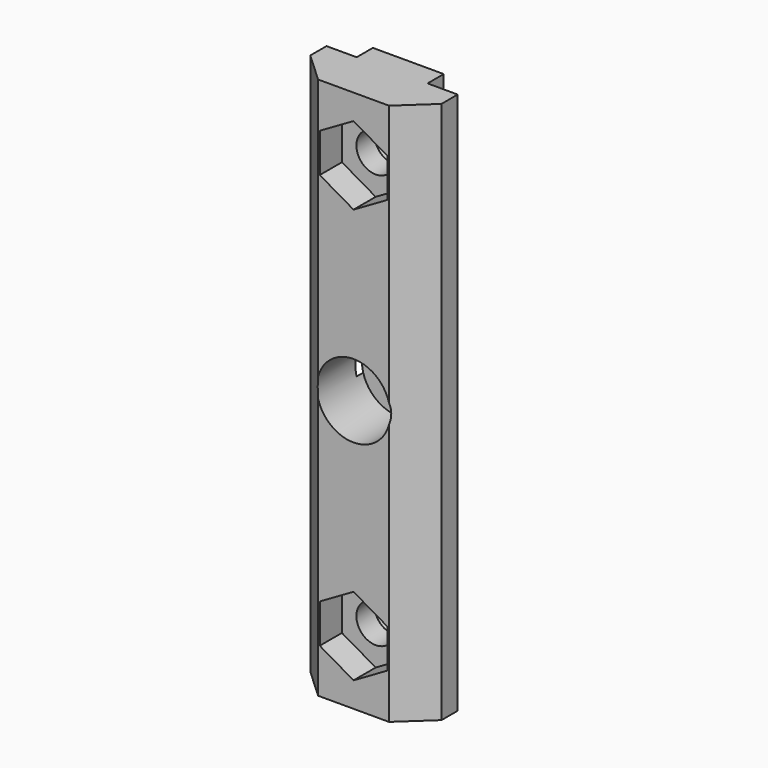
from build123d import *

# Parameters (mm, degrees)
PAD_DEPTH       = 45
SKETCH001_R     = 1.6
POCKET_DEPTH    = 5.68
SKETCH002_R     = 2.4
SKETCH002_R_2   = 1.6
PAD001_DEPTH    = 4
SKETCH003_R     = 1.6
POCKET001_DEPTH = 2.4
PAD002_DEPTH    = 2.4
SKETCH004_R     = 3.05
POCKET002_DEPTH = 9.68
SKETCH005_R     = 3.05
PAD003_DEPTH    = 1
SKETCH006_R     = 1.6
POCKET003_DEPTH = 5.681
POCKET004_DEPTH = 2.3
SKETCH008_R     = 2.75
POCKET005_DEPTH = 1.5
CHAMFER_SIZE    = 1


with BuildPart() as part:
    # Sketch → Pad (new body)
    with BuildSketch(Plane.XY):
        Polygon((2.94, -2.84), (-2.94, -2.84), (-5.44, -0.52), (-5.44, 1.16), (-2.94, 1.16), (-2.94, 2.84), (2.94, 2.84), (2.94, 1.16), (5.44, 1.16), (5.44, -0.52), align=None)
    extrude(amount=PAD_DEPTH)

    # Sketch001 (on Face6 of Pad) → Pocket (cut)
    with BuildSketch(Plane(origin=(0, 2.84, 0), x_dir=(-1, 0, 0), z_dir=(0, 1, 0))):
        with Locations((0, 22.5)):
            Circle(SKETCH001_R)
    extrude(amount=-POCKET_DEPTH, mode=Mode.SUBTRACT)

    # Sketch002 (on Face11 of Pocket) → Pad001 (join)
    with BuildSketch(Plane(origin=(0, 2.84, 0), x_dir=(-1, 0, 0), z_dir=(0, 1, 0))):
        with Locations((0, 22.5)):
            Circle(SKETCH002_R)
        with Locations((0, 22.5)):
            Circle(SKETCH002_R_2, mode=Mode.SUBTRACT)
    extrude(amount=PAD001_DEPTH)

    # Sketch003 (on Face1 of Pad001) → Pocket001 (cut)
    with BuildSketch(Plane.XZ.offset(2.84)):
        Polygon((0, 19.186009), (2.87, 20.843005), (2.87, 24.156995), (0, 25.813991), (-2.87, 24.156995), (-2.87, 20.843005), align=None)
        with Locations((0, 22.5)):
            Circle(SKETCH003_R, mode=Mode.SUBTRACT)
    extrude(amount=-POCKET001_DEPTH, mode=Mode.SUBTRACT)

    # Pocket001 Face19 → Pad002 (add)
    with BuildSketch(Plane(origin=(0, -0.44, 22.5), x_dir=(-1, 0, 0), z_dir=(0, -1, 0))):
        Polygon((0, 3.313991), (-2.87, 1.656995), (-2.87, -1.656995), (0, -3.313991), (2.87, -1.656995), (2.87, 1.656995), align=None)
        with BuildLine():
            ThreePointArc((1.6, 0), (0, -1.6), (-1.6, 0))
            ThreePointArc((-1.6, 0), (0, 1.6), (1.6, 0))
        make_face(mode=Mode.SUBTRACT)
    extrude(amount=PAD002_DEPTH)

    # Sketch004 (on Face16 of Pad001) → Pocket002 (cut)
    with BuildSketch(Plane(origin=(0, 6.84, 0), x_dir=(-1, 0, 0), z_dir=(0, 1, 0))):
        with Locations((0, 22.5)):
            Circle(SKETCH004_R)
    extrude(amount=-POCKET002_DEPTH, mode=Mode.SUBTRACT)

    # Sketch005 (on Face12 of Pocket002) → Pad003 (join)
    with BuildSketch(Plane(origin=(0, 2.84, 0), x_dir=(-1, 0, 0), z_dir=(0, 1, 0))):
        with Locations((0, 22.5)):
            Circle(SKETCH005_R)
    extrude(amount=-PAD003_DEPTH)

    # Sketch006 (on Face17 of Pad003) → Pocket003 (cut, through all)
    with BuildSketch(Plane.XZ.offset(2.84)):
        with Locations((0, 39.686)):
            Circle(SKETCH006_R)
        with Locations((0, 5.314)):
            Circle(SKETCH006_R)
    extrude(amount=-POCKET003_DEPTH, mode=Mode.SUBTRACT)

    # Sketch007 (on Face1 of Pocket003) → Pocket004 (cut)
    with BuildSketch(Plane.XZ.offset(2.84)):
        Polygon((0, 36.452838), (2.8, 38.069419), (2.8, 41.302581), (0, 42.919162), (-2.8, 41.302581), (-2.8, 38.069419), align=None)
        Polygon((0, 2.080838), (2.8, 3.697419), (2.8, 6.930581), (0, 8.547162), (-2.8, 6.930581), (-2.8, 3.697419), align=None)
    extrude(amount=-POCKET004_DEPTH, mode=Mode.SUBTRACT)

    # Sketch008 (on Face41 of Pocket004) → Pocket005 (cut)
    with BuildSketch(Plane(origin=(0, 2.84, 0), x_dir=(-1, 0, 0), z_dir=(0, 1, 0))):
        with Locations((0, 39.686)):
            Circle(SKETCH008_R)
        with Locations((0, 5.314)):
            Circle(SKETCH008_R)
    extrude(amount=-POCKET005_DEPTH, mode=Mode.SUBTRACT)

    # Chamfer
    chamfer_edges = [part.edges().sort_by_distance(p)[0] for p in [
        (2.75, 1.34, 5.314),
        (2.75, 1.34, 39.686),
    ]]
    chamfer(chamfer_edges, length=CHAMFER_SIZE)


solid = part.part
